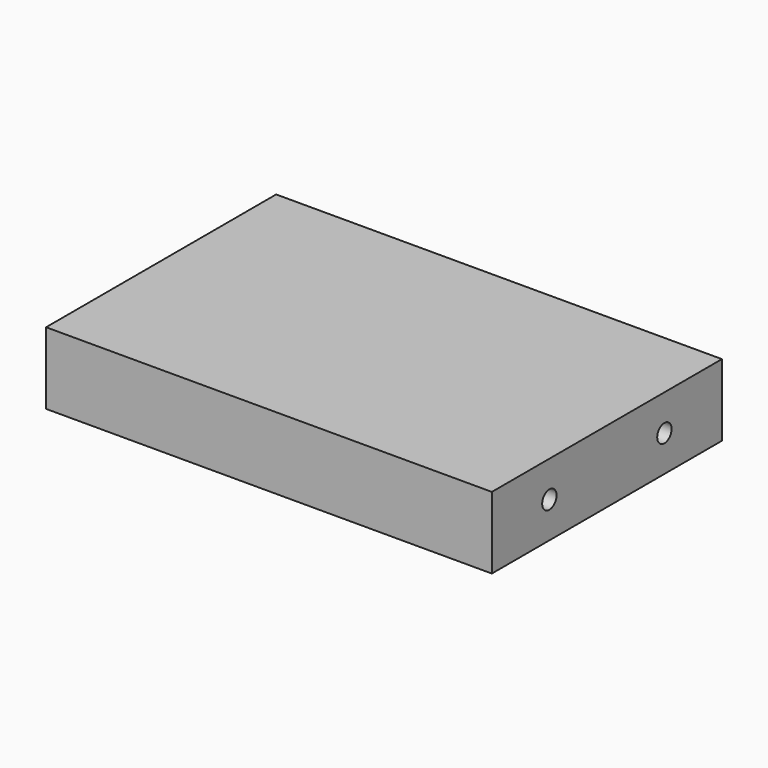
from build123d import *

# Parameters (mm, degrees)
F0_W     = 62
F0_H     = 40
F1_DEPTH = 10
F2_R     = 1.25
F4_DEPTH = 15
F3_R     = 1.25
F5_DEPTH = 15


with BuildPart() as f1:
    # F0 (on Top) → F1 (new body)
    with BuildSketch(Plane.XY):
        Rectangle(F0_W, F0_H)
    extrude(amount=F1_DEPTH)

    # F2 (on face) → F4 (cut)
    with BuildSketch(Plane(origin=(-31, 0, 0), x_dir=(0, -1, 0), z_dir=(-1, 0, 0))):
        with Locations((10, 5)):
            Circle(F2_R)
        with Locations((-10, 5)):
            Circle(F2_R)
    extrude(amount=-F4_DEPTH, mode=Mode.SUBTRACT)

    # F3 (on face) → F5 (cut)
    with BuildSketch(Plane.YZ.offset(31)):
        with Locations((-10, 5)):
            Circle(F3_R)
        with Locations((10, 5)):
            Circle(F3_R)
    extrude(amount=-F5_DEPTH, mode=Mode.SUBTRACT)


solid = f1.part
